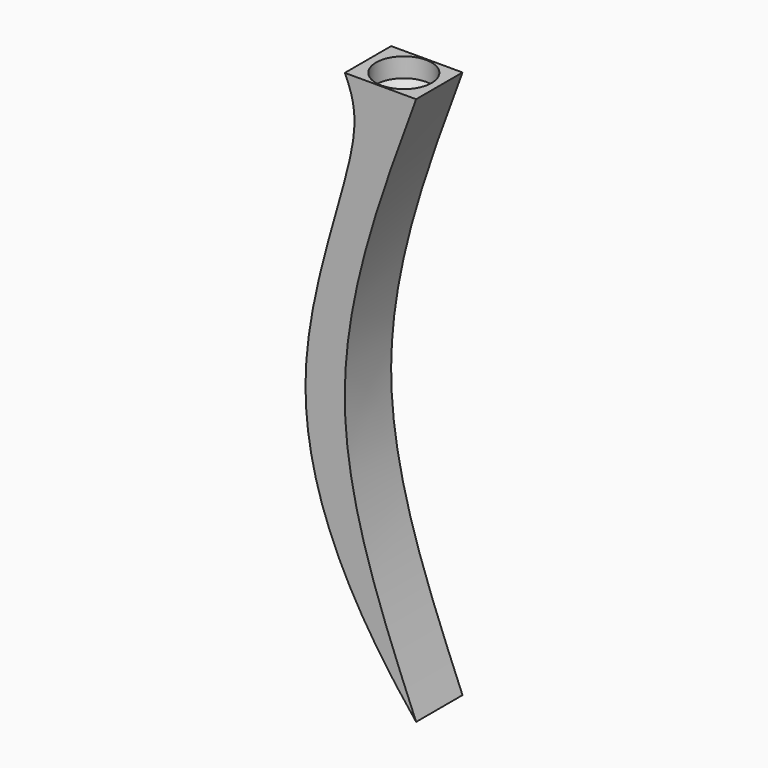
from build123d import *

# Parameters (mm, degrees)
F1_DEPTH = 3.048
F3_D     = 2.921
F3_DEPTH = 1.016
F3_TIP   = 0.8775569341


with BuildPart() as f1:
    # F0 (on Front) → F1 (new body)
    with BuildSketch(Plane.XZ):
        with BuildLine():
            Line((-21.6993894428, 0), (-25.4505686462, 0))
            add(Edge.make_bspline(
                [(-21.6993894428, -28.827091679), (-25.2311042814, -24.4833256454), (-29.7758519742, -15.7339199693), (-24.2763052364, -3.0663705603), (-25.1012646916, -0.7538146359), (-25.4505686462, 0)],
                knots=[0, 0, 0, 0, 0.4285398251, 0.815806467, 1, 1, 1, 1], degree=3))
            add(Edge.make_bspline(
                [(-21.6993894428, 0), (-23.6090284447, -5.1525288357), (-27.3296754836, -15.1914634907), (-23.5426882621, -24.3629246442), (-21.6993894428, -28.827091679)],
                knots=[0, 0, 0, 0, 0.5132545447, 1, 1, 1, 1], degree=3))
        make_face()
    extrude(amount=-F1_DEPTH)

    # F3
    with Locations(Plane.XY):
        with Locations((-23.564230947, 1.5230104046)):
            Hole(F3_D / 2, depth=F3_DEPTH)
            with Locations((0, 0, -(F3_DEPTH + F3_TIP / 2))):  # 118° drill point
                Cone(0, F3_D / 2, F3_TIP, mode=Mode.SUBTRACT)


solid = f1.part
